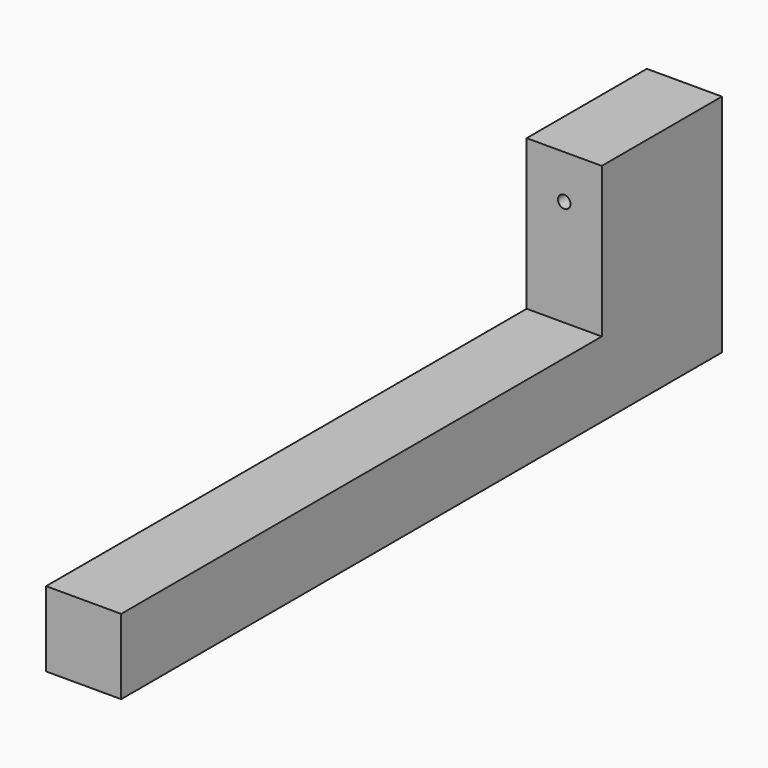
from build123d import *

# Parameters (mm, degrees)
SKETCH_W     = 15
SKETCH_H     = 15
PAD_DEPTH    = 150
SKETCH001_W  = 15
SKETCH001_H  = 30
PAD001_DEPTH = 30
SKETCH002_R  = 1.25
POCKET_DEPTH = 150.001


with BuildPart() as part:
    # Sketch → Pad (new body)
    with BuildSketch(Plane.XZ):
        Rectangle(SKETCH_W, SKETCH_H)
    extrude(amount=PAD_DEPTH)

    # Sketch001 (on Face3 of Pad) → Pad001 (join)
    with BuildSketch(Plane(origin=(0, 0, 7.5), x_dir=(-1, 0, 0), z_dir=(0, 0, 1))):
        with Locations((0, 15)):
            Rectangle(SKETCH001_W, SKETCH001_H)
    extrude(amount=PAD001_DEPTH)

    # Sketch002 → Pocket (cut, through all)
    with BuildSketch(Plane(origin=(0, 0, 0), x_dir=(1, 0, 0), z_dir=(0, 1, 0))):
        with Locations((0, -28.75)):
            Circle(SKETCH002_R)
    extrude(amount=-POCKET_DEPTH, mode=Mode.SUBTRACT)


solid = part.part
